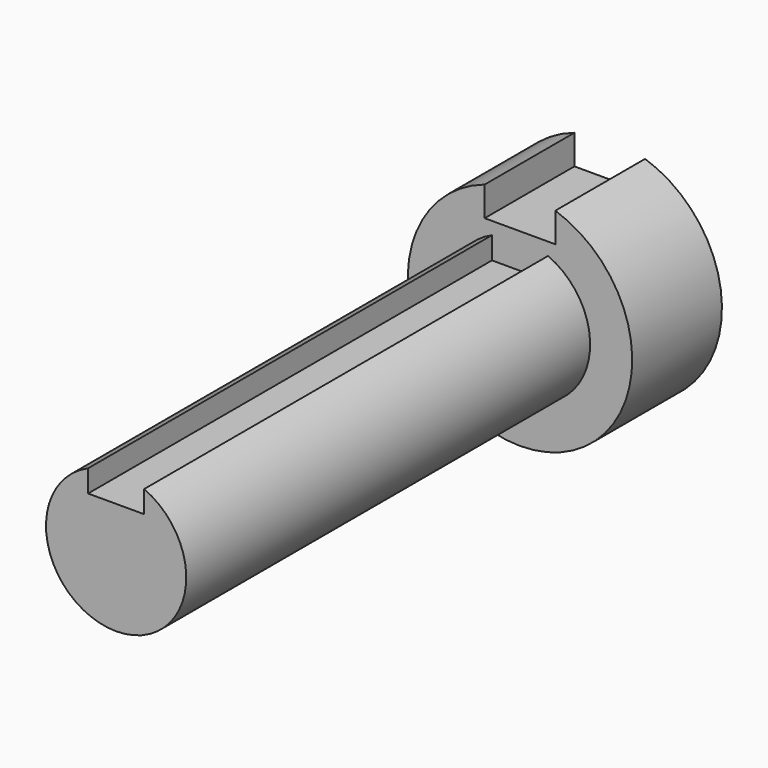
from build123d import *

# Parameters (mm, degrees)
F0_R     = 12.7
F1_DEPTH = 12.7
F2_R     = 7.9375
F3_DEPTH = 57.15
F4_W     = 8
F4_H     = 8
F5_DEPTH = 69.851
F6_W     = 6.35
F6_H     = 6.35
F7_DEPTH = 57.15


with BuildPart() as f1:
    # F0 (on Front) → F1 (new body)
    with BuildSketch(Plane.XZ):
        Circle(F0_R)
    extrude(amount=F1_DEPTH)

    # F2 (on face) → F3 (join)
    with BuildSketch(Plane.XZ.offset(12.7)):
        Circle(F2_R)
    extrude(amount=F3_DEPTH)

    # F4 (on face) → F5 (cut, through all)
    with BuildSketch(Plane(origin=(0, 0, 0), x_dir=(-1, 0, 0), z_dir=(0, 1, 0))):
        with Locations((0, 12.7)):
            Rectangle(F4_W, F4_H)
    extrude(amount=-F5_DEPTH, mode=Mode.SUBTRACT)

    # F6 (on face) → F7 (cut)
    with BuildSketch(Plane.XZ.offset(69.85)):
        with Locations((0, 7.9375)):
            Rectangle(F6_W, F6_H)
    extrude(amount=-F7_DEPTH, mode=Mode.SUBTRACT)


solid = f1.part
